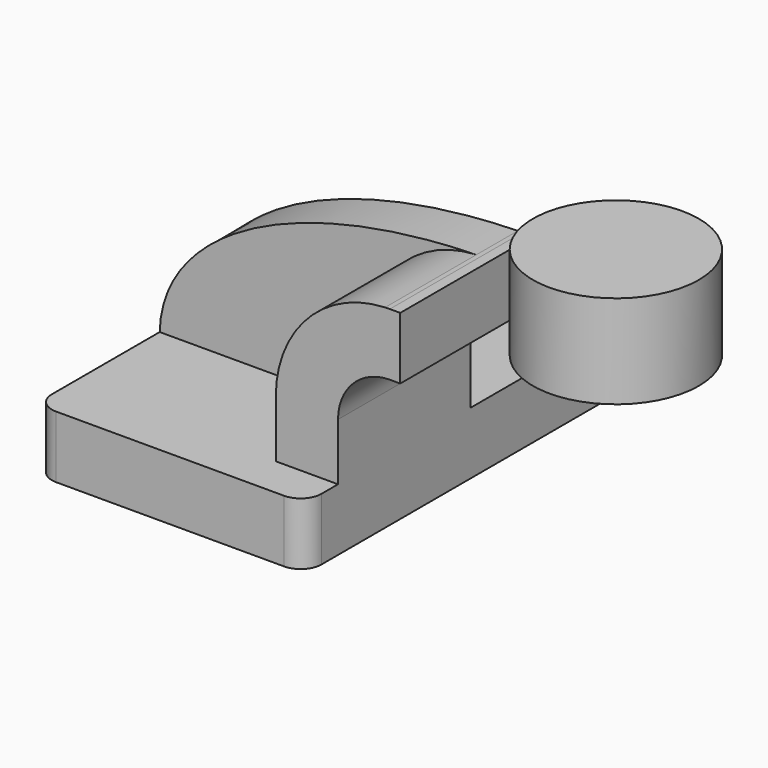
from build123d import *

# Parameters (mm, degrees)
F1_DEPTH = 63.5
F2_DEPTH = 50.8
F3_DEPTH = 15.875
F5_R     = 6.35


with BuildPart() as f1:
    # F0 (on Front) → F1 (new body, symmetric)
    with BuildSketch(Plane.XZ):
        Polygon((41.275, -9.525), (41.275, 9.525), (22.225, 9.525), (-41.275, 9.525), (-41.275, -9.525), align=None)
    extrude(amount=F1_DEPTH, both=True)

    # F0 (on Front) → F2 (join)
    with BuildSketch(Plane.XZ):
        with BuildLine():
            Line((22.225, 9.525), (41.275, 9.525))
            Line((41.275, 9.525), (41.275, 27.0002))
            ThreePointArc((41.275, 27.0002), (45.92468, 38.22552), (57.15, 42.8752))
            Line((57.15, 42.8752), (60.325, 42.8752))
            Line((60.325, 42.8752), (60.325, 61.9252))
            Line((60.325, 61.9252), (57.15, 61.9252))
            add(Edge.make_bspline(
                [(55.698656, 61.895031), (56.181235, 61.906578), (56.665021, 61.916637), (57.15, 61.9252)],
                knots=[110.558301, 110.558301, 110.558301, 110.558301, 111.504536, 111.504536, 111.504536, 111.504536], degree=3))
            ThreePointArc((55.698656, 61.895031), (31.946391, 51.177332), (22.225, 27.0002))
            Line((22.225, 27.0002), (22.225, 9.525))
        make_face()
    extrude(amount=F2_DEPTH)

    # F0 (on Front) → F3 (join)
    with BuildSketch(Plane.XZ):
        with BuildLine():
            Line((-41.275, 9.525), (22.225, 9.525))
            Line((22.225, 9.525), (22.225, 27.0002))
            ThreePointArc((22.225, 27.0002), (31.946391, 51.177332), (55.698656, 61.895031))
            add(Edge.make_bspline(
                [(-41.275, 9.525), (-40.59176, 38.8765), (-0.685957, 60.545822), (55.698656, 61.895031)],
                knots=[0, 0, 0, 0, 110.558301, 110.558301, 110.558301, 110.558301], degree=3))
        make_face()
    extrude(amount=F3_DEPTH)

    # F5
    f5_edges = [f1.edges().sort_by_distance(p)[0] for p in [
        (41.275, -63.5, 0),
        (-41.275, -63.5, 0),
        (41.275, 63.5, 0),
        (-41.275, 63.5, 0),
    ]]
    fillet(f5_edges, radius=F5_R)


with BuildPart() as f4:
    # F0 (on Front) → F4 (revolve)
    with BuildSketch(Plane.XZ):
        Polygon((85.725, 61.9252), (85.725, 42.8752), (85.725, 38.1), (111.125, 38.1), (111.125, 66.675), (85.725, 66.675), align=None)
    revolve(axis=Axis((85.725, 0, 52.3875), (0, 0, 1)))


solid = Compound([f1.part, f4.part])
